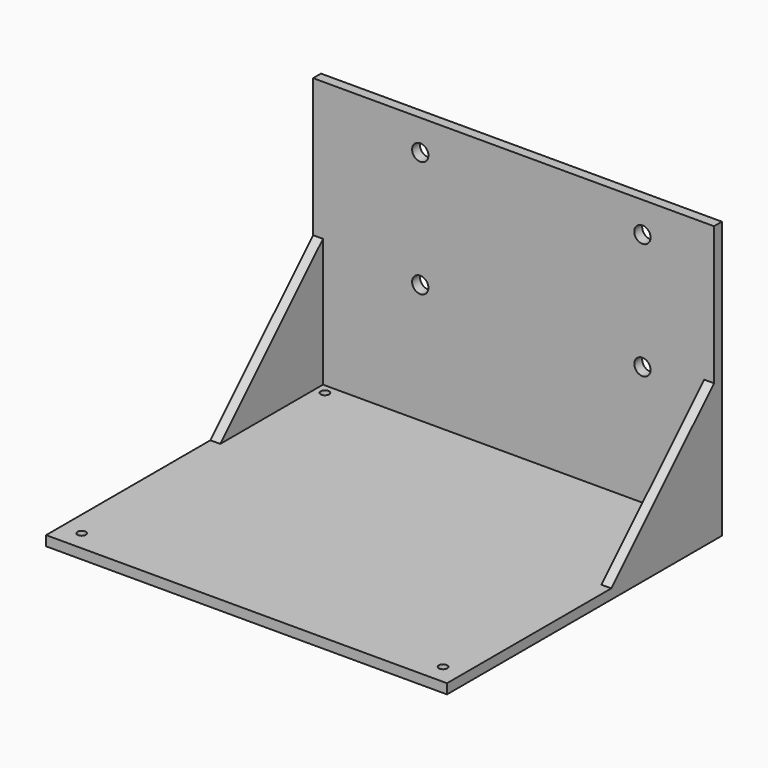
from build123d import *

# Parameters (mm, degrees)
F1_DEPTH  = 406
F2_W      = 10
F2_H      = 130
F3_DEPTH  = 130
F6_DEPTH  = 406.001
F7_R      = 8.25
F8_DEPTH  = 348.001
F9_R      = 4.25
F10_DEPTH = 280.001


with BuildPart() as f1:
    # F0 (on Right) → F1 (new body)
    with BuildSketch(Plane.YZ):
        Polygon((10, 135), (0, 135), (0, -135), (-338, -135), (-338, -145), (10, -145), align=None)
    extrude(amount=F1_DEPTH)

    # F2 (on face) → F3 (join)
    with BuildSketch(Plane.XZ):
        with Locations((5, -70)):
            Rectangle(F2_W, F2_H)
        with Locations((401, -70)):
            Rectangle(F2_W, F2_H)
    extrude(amount=F3_DEPTH)

    # F5 (on face) + F4 (on face) → F6 (cut, through all)
    with BuildSketch(Plane(origin=(0, 0, 0), x_dir=(0, -1, 0), z_dir=(-1, 0, 0))):
        Polygon((130, -5), (0, -5), (130, -135), align=None)
    with BuildSketch(Plane.YZ.offset(406)):
        Polygon((-130, -135), (0, -5), (-130, -5), align=None)
    extrude(amount=-F6_DEPTH, mode=Mode.SUBTRACT)

    # F7 (on face) → F8 (cut, through all)
    with BuildSketch(Plane(origin=(0, 10, 0), x_dir=(-1, 0, 0), z_dir=(0, 1, 0))):
        with Locations((-333.5, 104)):
            Circle(F7_R)
        with Locations((-333.5, -14)):
            Circle(F7_R)
        with Locations((-108.5, -14)):
            Circle(F7_R)
        with Locations((-108.5, 104)):
            Circle(F7_R)
    extrude(amount=-F8_DEPTH, mode=Mode.SUBTRACT)

    # F9 (on face) → F10 (cut, through all)
    with BuildSketch(Plane(origin=(0, 0, -145), x_dir=(1, 0, 0), z_dir=(0, 0, -1))):
        with Locations((20, 318)):
            Circle(F9_R)
        with Locations((386, 318)):
            Circle(F9_R)
        with Locations((20, 10)):
            Circle(F9_R)
        with Locations((386, 10)):
            Circle(F9_R)
    extrude(amount=-F10_DEPTH, mode=Mode.SUBTRACT)


solid = f1.part
